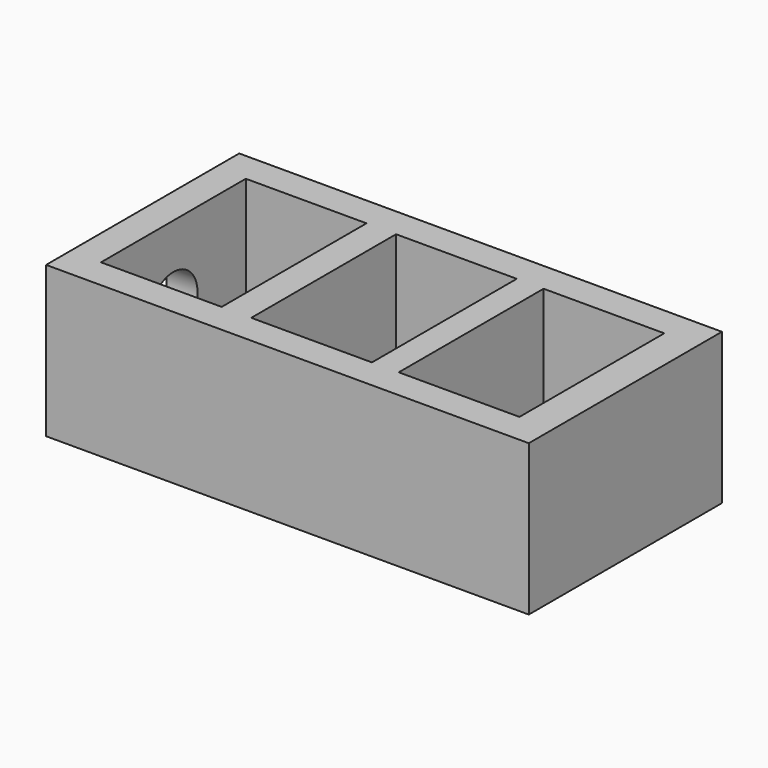
from build123d import *

# Parameters (mm, degrees)
SKETCH_W     = 160
SKETCH_H     = 80
SKETCH_W_2   = 40
SKETCH_H_2   = 60
PAD_DEPTH    = 50
SKETCH001_R  = 10
POCKET_DEPTH = 11


with BuildPart() as part:
    # Sketch → Pad (new body)
    with BuildSketch(Plane.XY):
        Rectangle(SKETCH_W, SKETCH_H)
        with Locations((-49.803748, 0)):
            Rectangle(SKETCH_W_2, SKETCH_H_2, mode=Mode.SUBTRACT)
        Rectangle(SKETCH_W_2, SKETCH_H_2, mode=Mode.SUBTRACT)
        with Locations((48.892394, 0)):
            Rectangle(SKETCH_W_2, SKETCH_H_2, mode=Mode.SUBTRACT)
    extrude(amount=PAD_DEPTH)

    # Sketch001 (on Face1 of Pad) → Pocket (cut)
    with BuildSketch(Plane(origin=(-80, 0, 0), x_dir=(0, -1, 0), z_dir=(-1, 0, 0))):
        with Locations((0, 25)):
            Circle(SKETCH001_R)
    extrude(amount=-POCKET_DEPTH, mode=Mode.SUBTRACT)


solid = part.part
